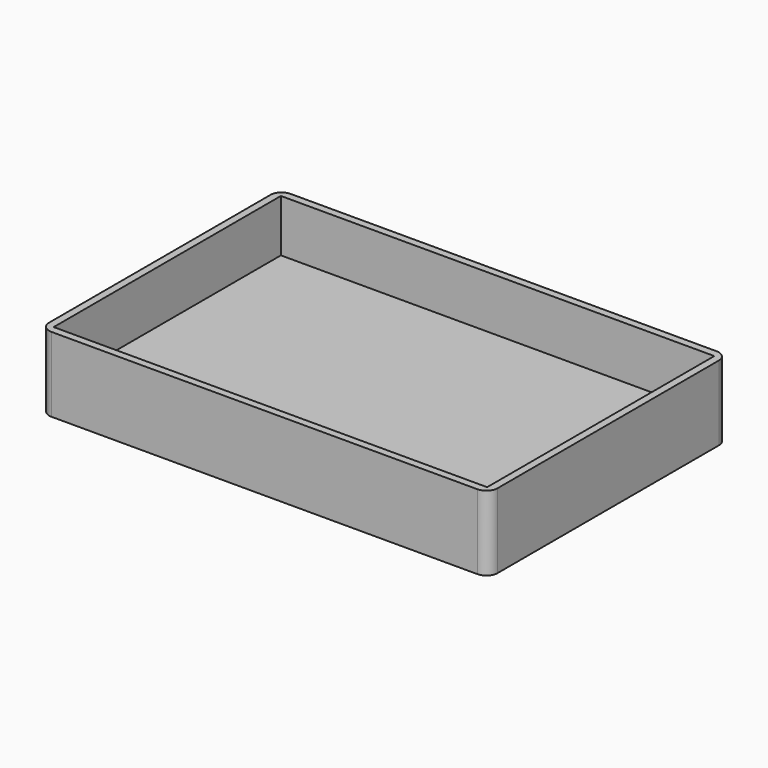
from build123d import *

# Parameters (mm, degrees)
F0_W     = 58
F0_H     = 38
F1_DEPTH = 3
F0_W_2   = 60
F0_H_2   = 40
F2_DEPTH = 10
F3_R     = 1.5


with BuildPart() as f1:
    # F0 (on Top) → F1 (new body)
    with BuildSketch(Plane.XY):
        Rectangle(F0_W, F0_H)
    extrude(amount=F1_DEPTH)

    # F0 (on Top) → F2 (join)
    with BuildSketch(Plane.XY):
        Rectangle(F0_W_2, F0_H_2)
        Rectangle(F0_W, F0_H, mode=Mode.SUBTRACT)
    extrude(amount=F2_DEPTH)

    # F3
    f3_edges = [f1.edges().sort_by_distance(p)[0] for p in [
        (-30, -20, 5),
        (30, -20, 5),
        (30, 20, 5),
        (-30, 20, 5),
    ]]
    fillet(f3_edges, radius=F3_R)


solid = f1.part
